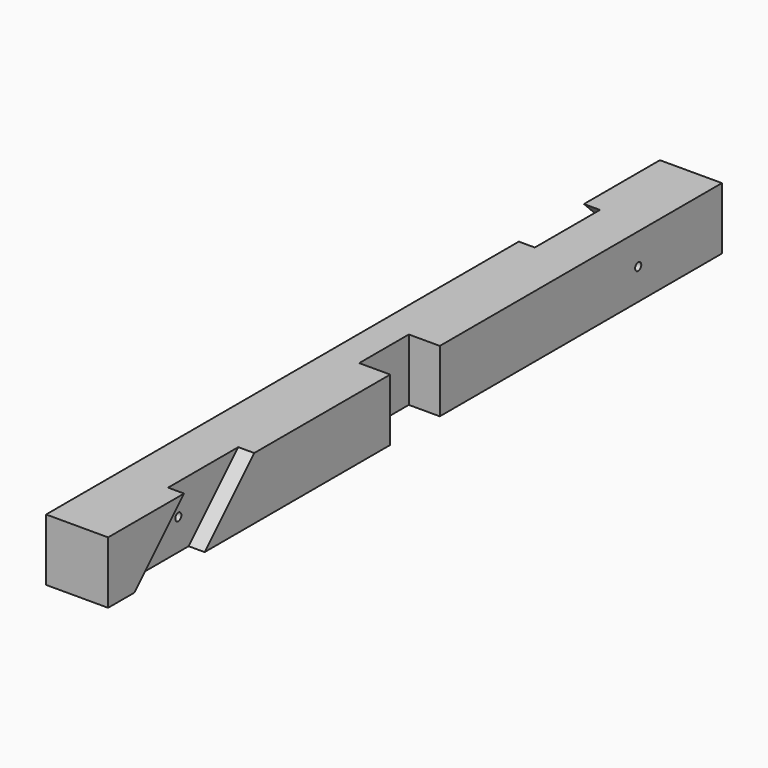
from build123d import *

# Parameters (mm, degrees)
F0_W      = 97
F0_H      = 97
F1_DEPTH  = 600
F2_W      = 97
F2_H      = 97
F3_DEPTH  = 48.5
F5_DEPTH  = 25
F7_DEPTH  = 25
F8_R      = 6
F9_DEPTH  = 72
F10_R     = 6
F11_DEPTH = 48.5
F12_R     = 6
F13_DEPTH = 72


with BuildPart() as f1:
    # F0 (on Front) → F1 (new body, symmetric)
    with BuildSketch(Plane.XZ):
        Rectangle(F0_W, F0_H)
    extrude(amount=F1_DEPTH, both=True)

    # F2 (on face) → F3 (cut)
    with BuildSketch(Plane.YZ.offset(48.5)):
        Rectangle(F2_W, F2_H)
    extrude(amount=-F3_DEPTH, mode=Mode.SUBTRACT)

    # F4 (on face) → F5 (cut)
    with BuildSketch(Plane.YZ.offset(48.5)):
        Polygon((-314.321284, 48.5), (-451.5, 48.5), (-548.5, -48.5), (-411.321284, -48.5), align=None)
    extrude(amount=-F5_DEPTH, mode=Mode.SUBTRACT)

    # F6 (on face) → F7 (cut)
    with BuildSketch(Plane(origin=(-48.5, 0, 0), x_dir=(0, -1, 0), z_dir=(-1, 0, 0))):
        Polygon((-324.220779, 48.5), (-451.5, 48.5), (-548.5, -48.5), (-421.220779, -48.5), align=None)
    extrude(amount=-F7_DEPTH, mode=Mode.SUBTRACT)

    # F8 (on face) → F9 (cut, through all)
    with BuildSketch(Plane.YZ.offset(23.5)):
        with Locations((-431.410642, 0)):
            Circle(F8_R)
    extrude(amount=-F9_DEPTH, mode=Mode.SUBTRACT)

    # F10 (on face) → F11 (cut, through all)
    with BuildSketch(Plane.YZ):
        Circle(F10_R)
    extrude(amount=-F11_DEPTH, mode=Mode.SUBTRACT)

    # F12 (on face) → F13 (cut, through all)
    with BuildSketch(Plane(origin=(-23.5, 0, 0), x_dir=(0, -1, 0), z_dir=(-1, 0, 0))):
        with Locations((-436.36039, 0)):
            Circle(F12_R)
    extrude(amount=-F13_DEPTH, mode=Mode.SUBTRACT)


solid = f1.part
